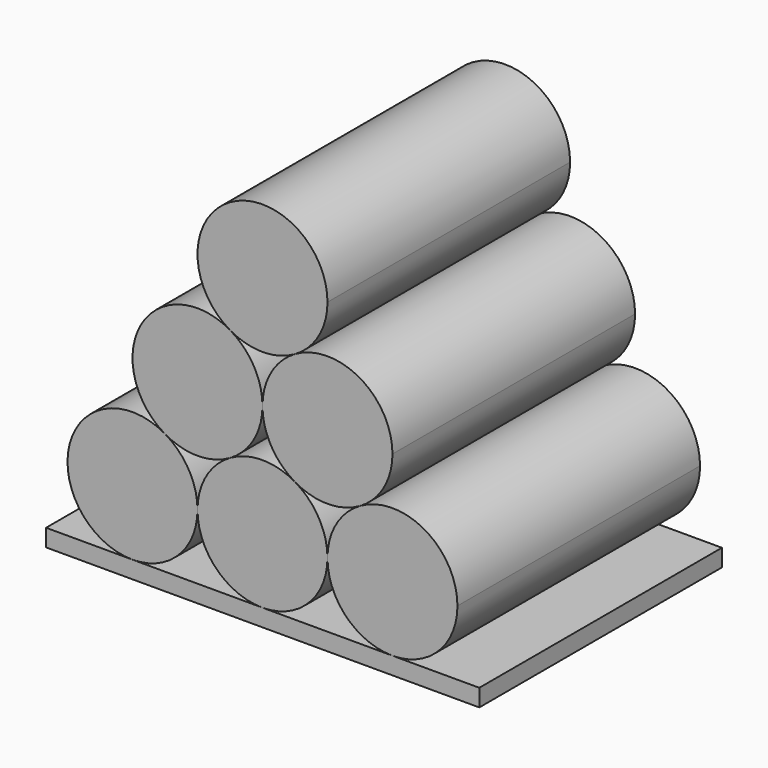
from build123d import *

# Parameters (mm, degrees)
F1_DEPTH = 88.9


with BuildPart() as f1:
    # F0 (on Front) → F1 (new body)
    with BuildSketch(Plane.XZ):
        with BuildLine():
            ThreePointArc((-9.586811, -10.320259), (-2.614027, -3.347475), (-0.061811, 6.177525))
            ThreePointArc((-0.061811, 6.177525), (-2.614027, 15.702526), (-9.586811, 22.67531))
            ThreePointArc((-9.586811, 22.67531), (-35.609595, 15.702525), (-28.636811, -10.320258))
            ThreePointArc((-28.636811, -10.320258), (-19.111811, -12.872475), (-9.586811, -10.320259))
        make_face()
        with BuildLine():
            ThreePointArc((9.463189, 22.675309), (2.490405, 15.702525), (-0.061811, 6.177525))
            ThreePointArc((-0.061811, 6.177525), (2.490405, -3.347474), (9.463189, -10.320258))
            ThreePointArc((9.463189, -10.320258), (18.988189, -12.872475), (28.51319, -10.320258))
            ThreePointArc((28.51319, -10.320258), (35.485973, -3.347474), (38.038189, 6.177525))
            ThreePointArc((38.038189, 6.177525), (28.513189, 22.675309), (9.463189, 22.675309))
        make_face()
        with BuildLine():
            ThreePointArc((9.463189, -10.320258), (-0.061811, -7.768042), (-9.586811, -10.320259))
            ThreePointArc((-9.586811, -10.320259), (-16.559595, -17.293043), (-19.111811, -26.818042))
            ThreePointArc((-19.111811, -26.818042), (-13.532195, -40.288427), (-0.061811, -45.868042))
            ThreePointArc((-0.061811, -45.868042), (13.408573, -40.288427), (18.988189, -26.818042))
            ThreePointArc((18.988189, -26.818042), (16.435973, -17.293042), (9.463189, -10.320258))
        make_face()
        with BuildLine():
            ThreePointArc((57.088189, -26.818042), (47.563189, -10.320259), (28.51319, -10.320258))
            ThreePointArc((28.51319, -10.320258), (21.540405, -17.293042), (18.988189, -26.818042))
            ThreePointArc((18.988189, -26.818042), (24.567805, -40.288427), (38.038189, -45.868042))
            ThreePointArc((38.038189, -45.868042), (51.508573, -40.288427), (57.088189, -26.818042))
        make_face()
        with BuildLine():
            ThreePointArc((-19.111811, -26.818042), (-21.664027, -17.293042), (-28.636811, -10.320258))
            ThreePointArc((-28.636811, -10.320258), (-56.562698, -21.88754), (-38.161811, -45.868042))
            ThreePointArc((-38.161811, -45.868042), (-24.691427, -40.288427), (-19.111811, -26.818042))
        make_face()
        Polygon((-0.061811, -45.868042), (-38.161811, -45.868042), (-63.5, -45.868042), (-63.5, -50.948042), (63.5, -50.948042), (63.5, -45.868042), (38.038189, -45.868042), align=None)
        with BuildLine():
            ThreePointArc((18.988189, 39.173093), (-9.586811, 55.670877), (-9.586811, 22.67531))
            ThreePointArc((-9.586811, 22.67531), (-0.061811, 20.123093), (9.463189, 22.675309))
            ThreePointArc((9.463189, 22.675309), (16.435973, 29.648093), (18.988189, 39.173093))
        make_face()
    extrude(amount=F1_DEPTH)


solid = f1.part
